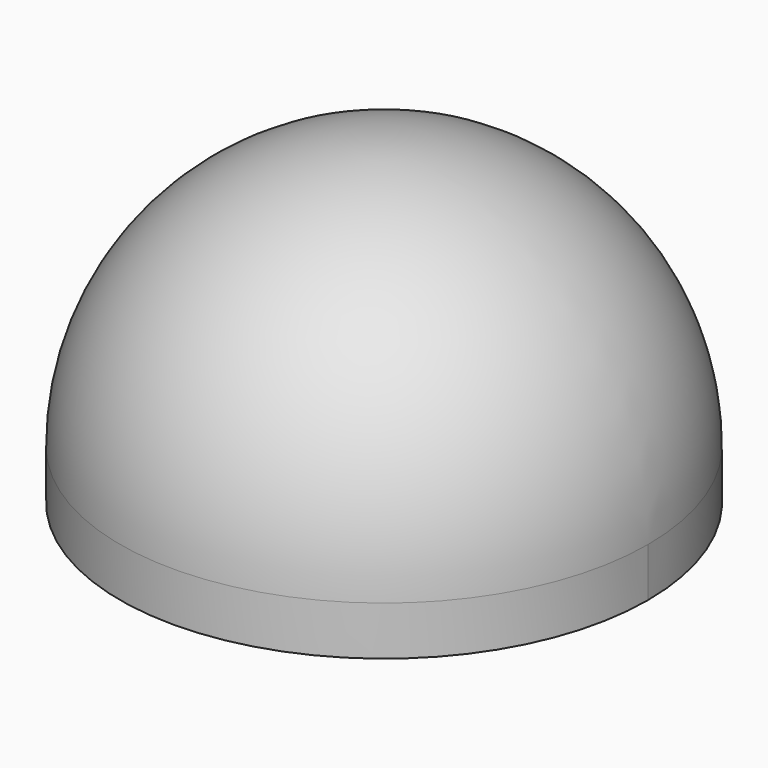
from build123d import *

# Parameters (mm, degrees)
F3_DEPTH = 25


with BuildPart() as f1:
    # F0 (on Front) → F1 (revolve)
    with BuildSketch(Plane.XZ):
        with BuildLine():
            Line((94.417555, 45.357624), (94.417555, 38.357624))
            Line((94.417555, 38.357624), (96.417555, 38.357624))
            Line((96.417555, 38.357624), (96.417555, 45.357624))
            ThreePointArc((96.417555, 45.357624), (85.360836, 72.050905), (58.667555, 83.107624))
            Line((58.667555, 83.107624), (58.667555, 81.107624))
            ThreePointArc((58.667555, 81.107624), (83.946623, 70.636691), (94.417555, 45.357624))
        make_face()
    revolve(axis=Axis((58.667555, 0, 70.982172), (0, 0, -1)))

    # F2 (on Right) → F3 (cut)
    with BuildSketch(Plane.YZ):
        with BuildLine():
            ThreePointArc((7, 40.357624), (5.535534, 43.893158), (2, 45.357624))
            Line((2, 45.357624), (-2, 45.357624))
            ThreePointArc((-2, 45.357624), (-5.535534, 43.893158), (-7, 40.357624))
            Line((-7, 40.357624), (-7, 38.357624))
            Line((-7, 38.357624), (7, 38.357624))
            Line((7, 38.357624), (7, 40.357624))
        make_face()
    extrude(amount=F3_DEPTH, mode=Mode.SUBTRACT)


solid = f1.part
